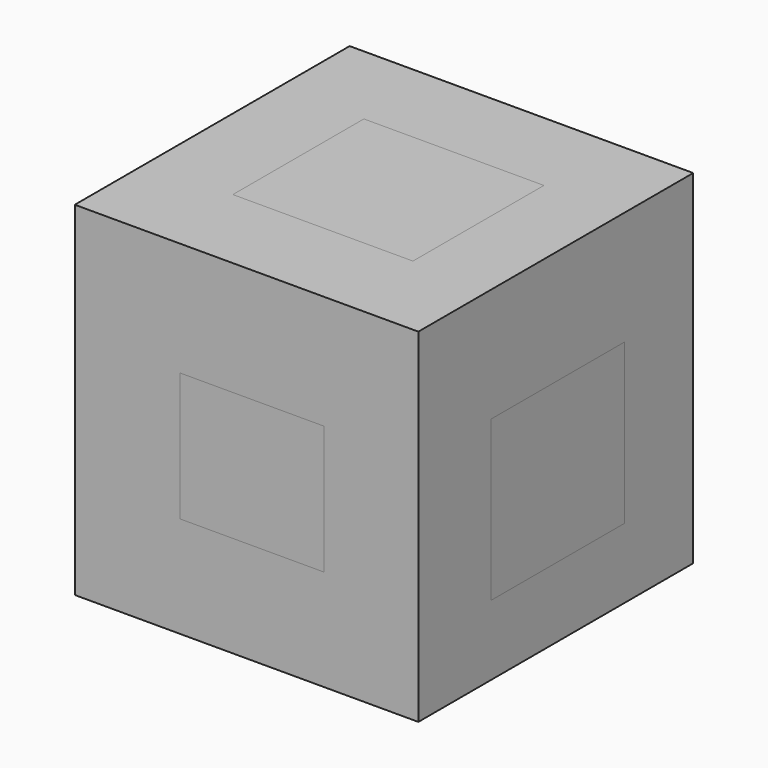
from build123d import *

# Parameters (mm, degrees)
F0_W      = 25.4
F0_H      = 25.4
F1_DEPTH  = 25.4
F2_W      = 10.648813
F2_H      = 9.49759
F3_DEPTH  = 6.35
F5_W      = 12.375646
F5_H      = 11.800036
F6_DEPTH  = 3.175
F7_W      = 10.798754
F7_H      = 10.936619
F8_DEPTH  = 3.175
F4_W      = 10.936619
F4_H      = 10.648813
F9_DEPTH  = 3.175
F10_W     = 13.52687
F10_H     = 11.512231
F11_DEPTH = 3.175
F12_W     = 13.312163
F12_H     = 12.109572
F13_DEPTH = 3.175


with BuildPart() as f1:
    # F0 (on Right) → F1 (new body)
    with BuildSketch(Plane.YZ):
        with Locations((6.007374, -4.28054)):
            Rectangle(F0_W, F0_H)
    extrude(amount=F1_DEPTH)


with BuildPart() as f3:
    # F2 (on face) → F3 (new body)
    with BuildSketch(Plane.XZ.offset(6.692626)):
        with Locations((13.095162, -4.748795)):
            Rectangle(F2_W, F2_H)
    extrude(amount=-F3_DEPTH)


with BuildPart() as f6:
    # F5 (on face) → F6 (new body)
    with BuildSketch(Plane.YZ.offset(25.4)):
        with Locations((6.187823, -5.900018)):
            Rectangle(F5_W, F5_H)
    extrude(amount=-F6_DEPTH)


with BuildPart() as f8:
    # F7 (on face) → F8 (new body)
    with BuildSketch(Plane(origin=(0, 18.707374, 0), x_dir=(-1, 0, 0), z_dir=(0, 1, 0))):
        with Locations((-13.745745, -5.46831)):
            Rectangle(F7_W, F7_H)
    extrude(amount=-F8_DEPTH)


with BuildPart() as f9:
    # F4 (on face) → F9 (new body)
    with BuildSketch(Plane(origin=(0, 0, 0), x_dir=(0, -1, 0), z_dir=(-1, 0, 0))):
        with Locations((-5.46831, -5.324406)):
            Rectangle(F4_W, F4_H)
    extrude(amount=-F9_DEPTH)


with BuildPart() as f11:
    # F10 (on face) → F11 (new body)
    with BuildSketch(Plane(origin=(0, 0, -16.98054), x_dir=(1, 0, 0), z_dir=(0, 0, -1))):
        with Locations((12.785627, -5.756115)):
            Rectangle(F10_W, F10_H)
    extrude(amount=-F11_DEPTH)


with BuildPart() as f13:
    # F12 (on face) → F13 (new body)
    with BuildSketch(Plane.XY.offset(8.41946)):
        with Locations((12.987808, 6.054786)):
            Rectangle(F12_W, F12_H)
    extrude(amount=-F13_DEPTH)


solid = Compound([f1.part, f3.part, f6.part, f8.part, f9.part, f11.part, f13.part])
